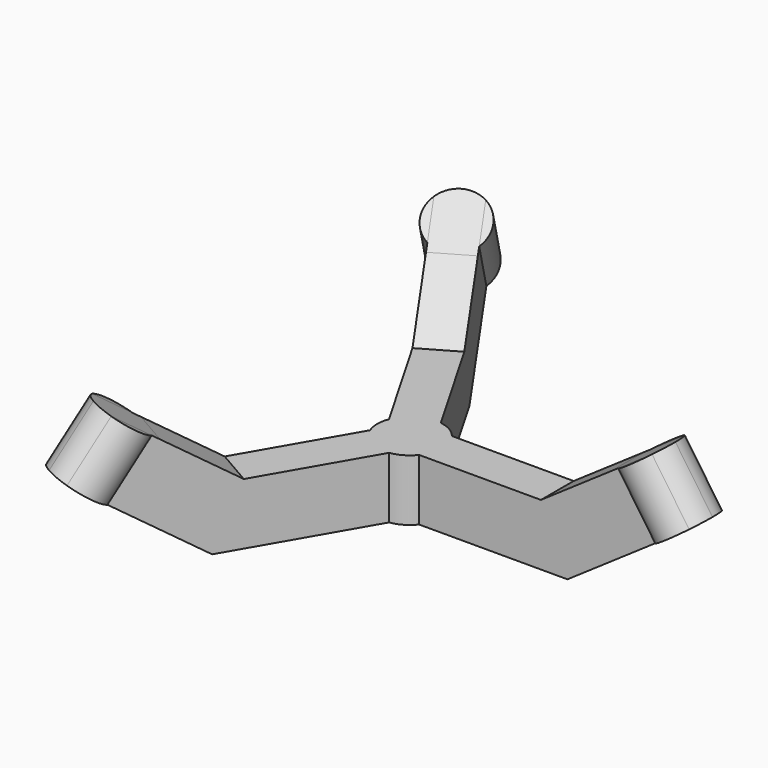
from build123d import *

# Parameters (mm, degrees)
F1_DEPTH  = 3.175
F3_DEPTH  = 10.16
F5_DEPTH  = 21.4507239097
F6_COUNT  = 3
F8_DEPTH  = 9.5
F10_DEPTH = 9.5


with BuildPart() as f1:
    # F0 (on Front) → F1 (new body, symmetric)
    with BuildSketch(Plane.XZ):
        Polygon((0, -5.485), (0, -6.985), (2.625, -6.985), (2.625, -14.985), (26.9478585707, -14.985), (46.8930374778, -1.2901832047), (41.1420940815, 7.0855107996), (33.7226801014, 1.9911711769), (22.8343583448, -5.485), align=None)
    extrude(amount=F1_DEPTH, both=True)

    # F2 (on face) → F3 (join, through all)
    with BuildSketch(Plane(origin=(9.8755636575, 0, -14.3828053272), x_dir=(0.8243793311, 0, 0.5660377358), z_dir=(-0.5660377358, 0, 0.8243793311))):
        with BuildLine():
            Line((30.23841274, 3.175), (36.6163042411, 3.175))
            ThreePointArc((36.6163042411, 3.175), (33.4273584906, 4.5), (30.23841274, 3.175))
        make_face()
        with BuildLine():
            ThreePointArc((30.23841274, -3.175), (33.4273584906, -4.5), (36.6163042411, -3.175))
            Line((36.6163042411, -3.175), (30.23841274, -3.175))
        make_face()
        with BuildLine():
            ThreePointArc((36.6163042411, -3.175), (37.5867007389, -1.7175191589), (37.9273584906, 0))
            ThreePointArc((37.9273584906, 0), (37.5867007389, 1.7175191589), (36.6163042411, 3.175))
            Line((36.6163042411, 3.175), (30.23841274, 3.175))
            ThreePointArc((30.23841274, 3.175), (28.9273584906, 0), (30.23841274, -3.175))
            Line((30.23841274, -3.175), (36.6163042411, -3.175))
        make_face()
    extrude(amount=-F3_DEPTH)

    # F4 (on face) → F5 (cut, through all)
    with BuildSketch(Plane(origin=(9.8755636575, 0, -14.3828053272), x_dir=(0.8243793311, 0, 0.5660377358), z_dir=(-0.5660377358, 0, 0.8243793311))):
        with BuildLine():
            Line((36.6163042411, -3.175), (37.9273584906, -3.175))
            Line((37.9273584906, -3.175), (37.9273584906, 0))
            ThreePointArc((37.9273584905, 0), (37.5867007389, -1.7175191589), (36.6163042411, -3.175))
        make_face()
        with BuildLine():
            ThreePointArc((36.6163042411, 3.175), (37.5867007389, 1.7175191589), (37.9273584905, 0))
            Line((37.9273584906, 0), (37.9273584906, 3.175))
            Line((37.9273584906, 3.175), (36.6163042411, 3.175))
        make_face()
    extrude(amount=-F5_DEPTH, mode=Mode.SUBTRACT)

    # F6: F1 ×3 about axis
    f6_axis = Axis((0, 0, -2.7425), (0, 0, -1))


with BuildPart() as f1_1:
    add(f1.part)
    for i in range(1, F6_COUNT):
        add(f1.part.rotate(f6_axis, i * 360 / F6_COUNT))

    # F7 (on face) → F8 (join, through all)
    with BuildSketch(Plane(origin=(0, 0, -14.985), x_dir=(1, 0, 0), z_dir=(0, 0, -1))):
        with BuildLine():
            ThreePointArc((-1.3124999835, 2.2733166945), (1.3125000082, 2.2733166802), (2.625, 0))
            Line((2.625, 0), (2.625, 3.175))
            Line((2.625, 3.175), (3.965573729, 3.175))
            ThreePointArc((3.965573729, 3.175), (2.54, 4.3994090512), (0.7668437925, 5.0217875899))
            Line((0.7668437925, 5.0217875899), (1.437130657, 3.8608166849))
            Line((1.437130657, 3.8608166849), (-1.3124999835, 2.2733166945))
        make_face()
        with BuildLine():
            Line((2.625, -3.175), (2.625, 0))
            ThreePointArc((2.625, 0), (-1.3125000082, -2.2733166802), (-1.3124999835, 2.2733166945))
            Line((-1.3124999835, 2.2733166945), (-4.062130657, 0.6858166849))
            Line((-4.062130657, 0.6858166849), (-4.7324175215, 1.8467875899))
            ThreePointArc((-4.7324175215, 1.8467875899), (-2.54, -4.3994090512), (3.965573729, -3.175))
            Line((3.965573729, -3.175), (2.625, -3.175))
        make_face()
    extrude(amount=-F8_DEPTH)

    # F9 (on face) → F10 (join, through all)
    with BuildSketch(Plane(origin=(0, 0, -14.985), x_dir=(1, 0, 0), z_dir=(0, 0, -1))):
        with BuildLine():
            ThreePointArc((2.25, -1.3520817283), (2.5295132931, -0.70156076), (2.625, 0))
            ThreePointArc((2.625, 0), (2.5295132931, 0.70156076), (2.25, 1.3520817283))
            Line((2.25, 1.3520817283), (2.25, -1.3520817283))
        make_face()
    extrude(amount=-F10_DEPTH)


solid = f1_1.part
